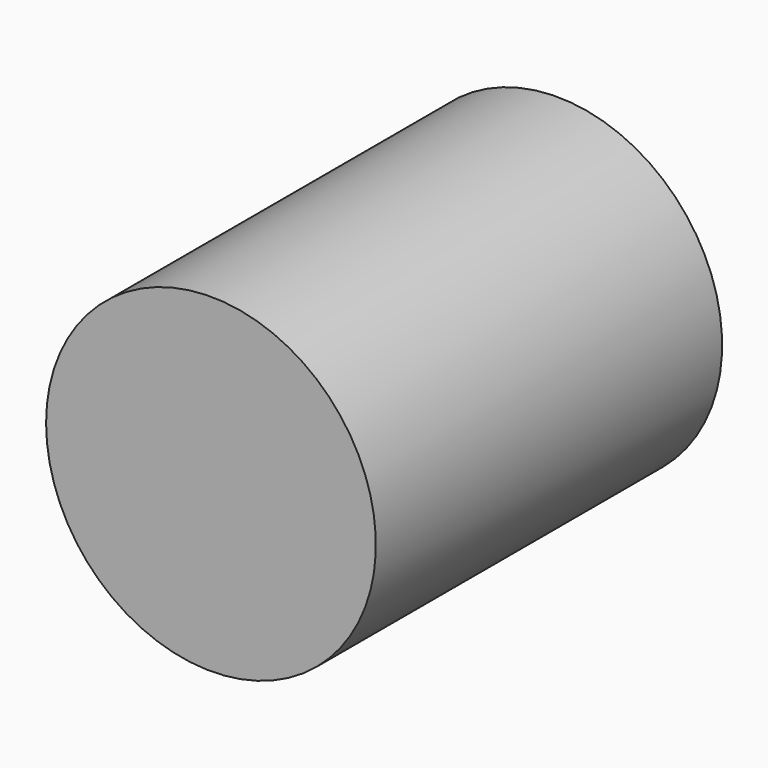
from build123d import *


with BuildPart() as part:
    # Sketch → Revolution (revolve)
    with BuildSketch(Plane.XY):
        Polygon((-40, 105), (-40, 0), (0, 0), (0, 8), (-35, 8), (-35, 105), align=None)
    revolve(axis=Axis((0, 0, 0), (0, 1, 0)))


solid = part.part
